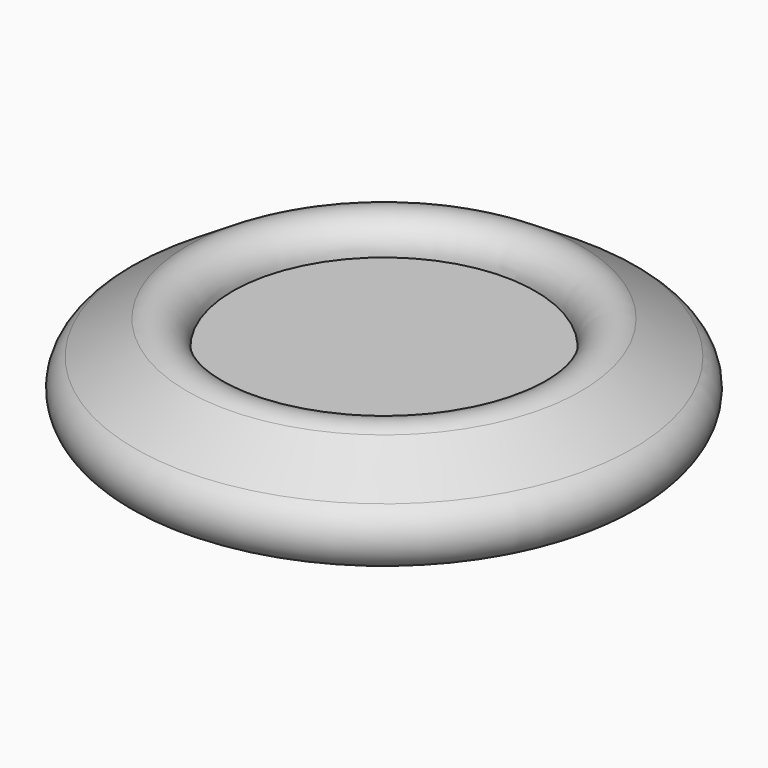
from build123d import *


with BuildPart() as f1:
    # F0 (on Front) → F1 (revolve)
    with BuildSketch(Plane.XZ):
        with BuildLine():
            Line((247.462681, 0), (40.534948, 0))
            ThreePointArc((40.534948, 0), (19.420258, 35.579989), (-21.926491, 34.092683))
            Line((-21.926491, 34.092683), (-93.25847, -11.784024))
            ThreePointArc((-93.25847, -11.784024), (-111.824913, -61.601548), (-69.261559, -93.458406))
            Line((-69.261559, -93.458406), (247.462681, -93.458406))
            Line((247.462681, -93.458406), (247.462681, 0))
        make_face()
    revolve(axis=Axis((247.462681, 0, -46.729203), (0, 0, 1)))


solid = f1.part
